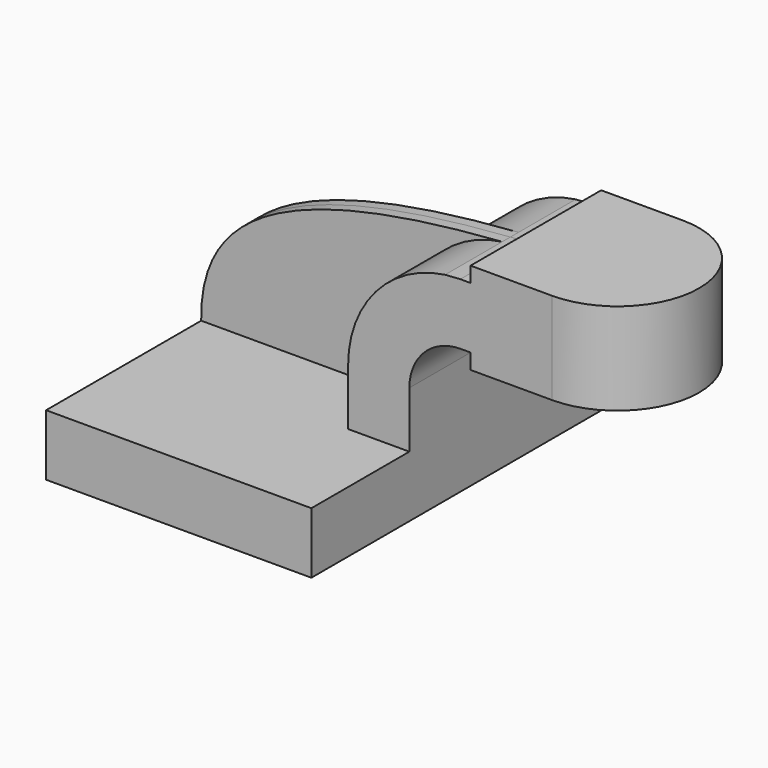
from build123d import *

# Parameters (mm, degrees)
F1_DEPTH = 63.5
F0_W     = 25.4
F0_H     = 19.05
F0_H_2   = 4.7498
F0_H_3   = 4.7752
F2_DEPTH = 25.4
F3_DEPTH = 3.175


with BuildPart() as f1:
    # F0 (on Front) → F1 (new body, symmetric)
    with BuildSketch(Plane.XZ):
        Polygon((-41.275, -9.525), (41.275, -9.525), (41.275, 9.525), (22.225, 9.525), (-41.275, 9.525), align=None)
    extrude(amount=F1_DEPTH, both=True)

    # F0 (on Front) → F2 (join, symmetric)
    with BuildSketch(Plane.XZ):
        with BuildLine():
            Line((22.225, 9.525), (41.275, 9.525))
            Line((41.275, 9.525), (41.275, 27.0002))
            ThreePointArc((41.275, 27.0002), (45.9246798487, 38.2255201513), (57.15, 42.8752))
            Line((57.15, 42.8752), (60.325, 42.8752))
            Line((60.325, 42.8752), (60.325, 61.9252))
            Line((60.325, 61.9252), (57.15, 61.9252))
            add(Edge.make_bspline(
                [(52.3907166691, 61.5994029847), (53.9548508267, 61.7140325614), (55.5412148436, 61.8226215769), (57.15, 61.9252)],
                knots=[109.0083952872, 109.0083952872, 109.0083952872, 109.0083952872, 111.5045361635, 111.5045361635, 111.5045361635, 111.5045361635], degree=3))
            ThreePointArc((52.3907166691, 61.5994029847), (30.8253575966, 49.9516449945), (22.225, 27.0002))
            Line((22.225, 27.0002), (22.225, 9.525))
        make_face()
        with Locations((73.025, 52.4002)):
            Rectangle(F0_W, F0_H)
        with Locations((73.025, 64.3001)):
            Rectangle(F0_W, F0_H_2)
        with Locations((73.025, 40.4876)):
            Rectangle(F0_W, F0_H_3)
    extrude(amount=F2_DEPTH, both=True)

    # F0 (on Front) → F3 (join, symmetric)
    with BuildSketch(Plane.XZ):
        with BuildLine():
            add(Edge.make_bspline(
                [(-41.275, 9.525), (-41.8278017588, 40.0673060795), (-15.9162271246, 56.5934410498), (52.3907166691, 61.5994029847)],
                knots=[0, 0, 0, 0, 109.0083952872, 109.0083952872, 109.0083952872, 109.0083952872], degree=3))
            Line((-41.275, 9.525), (22.225, 9.525))
            Line((22.225, 9.525), (22.225, 27.0002))
            ThreePointArc((22.225, 27.0002), (30.8253575966, 49.9516449945), (52.3907166691, 61.5994029847))
        make_face()
    extrude(amount=F3_DEPTH, both=True)

    # F0 (on Front) → F4 (revolve)
    with BuildSketch(Plane.XZ):
        Polygon((85.725, 61.9252), (85.725, 42.8752), (85.725, 38.1), (111.125, 38.1), (111.125, 66.675), (85.725, 66.675), align=None)
    revolve(axis=Axis((85.725, 0, 52.3875), (0, 0, 1)))


solid = f1.part
